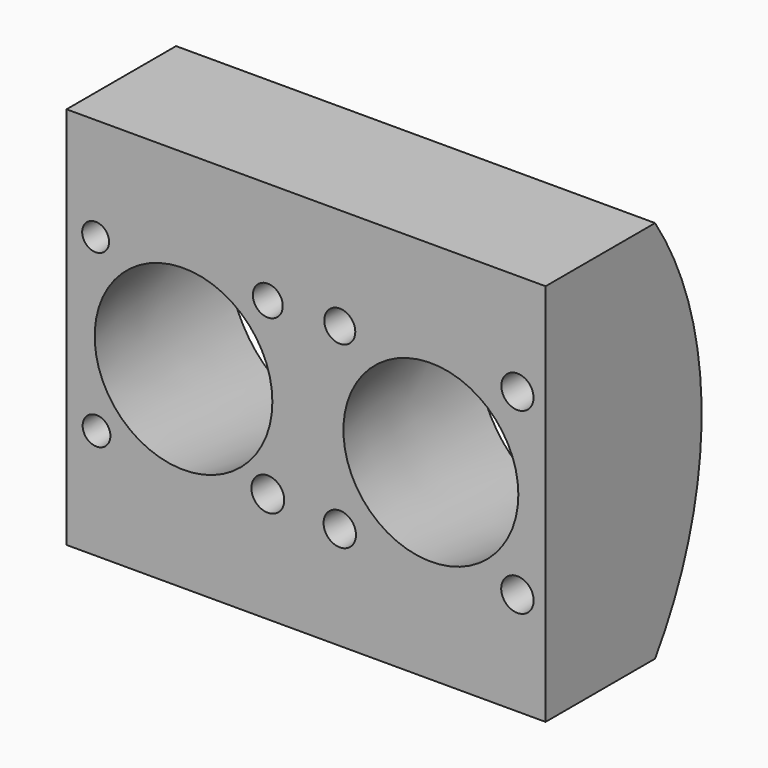
from build123d import *

# Parameters (mm, degrees)
F1_DEPTH  = 70
F2_DEPTH  = 70
F3_DEPTH  = 40
F4_R      = 25.9673411554
F4_R_2    = 25.5632964649
F5_DEPTH  = 101.6
F5_TAPER  = -7.5
F6_R      = 3.9312257392
F6_R_2    = 4.3669266887
F7_R      = 4.0554960028
F7_R_2    = 4.8000012206
F8_DEPTH  = 25.4
F8_TAPER  = 4
F9_R      = 4.5341790364
F9_R_2    = 4.7105540517
F9_R_3    = 4.7405563192
F9_R_4    = 4.7405580976
F10_DEPTH = 25.4
F10_TAPER = 4


with BuildPart() as f1:
    # F0 (on Right) → F1 (new body)
    with BuildSketch(Plane.YZ):
        with BuildLine():
            Line((0, 56.3131943345), (0, -55.7806827128))
            ThreePointArc((0, -55.7806827128), (17.0028912966, 0.2662558109), (0, 56.3131943345))
        make_face()
    extrude(amount=F1_DEPTH)

    # F2 (add): a face of the model
    f2_faces = [f1.faces().sort_by_distance(p)[0] for p in [
        (0, 6.8528110679, 0.2662558109),
    ]]
    extrude(f2_faces, amount=F2_DEPTH)

    # F3 (add): a face of the model
    f3_faces = [f1.faces().sort_by_distance(p)[0] for p in [
        (0, 0, 0.2662558109),
    ]]
    extrude(f3_faces, amount=F3_DEPTH)

    # F4 (on face) → F5 (cut)
    with BuildSketch(Plane.XZ.offset(40)):
        with Locations((-35.8114647679, 0.6180945247)):
            Circle(F4_R)
        with Locations((36.479592697, 0.1035452609)):
            Circle(F4_R_2)
    extrude(amount=-F5_DEPTH, taper=F5_TAPER, mode=Mode.SUBTRACT)

    # F6 (on face) + F7 (on face) → F8 (cut)
    with BuildSketch(Plane.XZ.offset(40)):
        with Locations((-61.5051910281, 26.2262392789)):
            Circle(F6_R)
        with Locations((-11.1827617511, 26.2262392789)):
            Circle(F6_R_2)
    with BuildSketch(Plane.XZ.offset(40)):
        with Locations((-61.2389370799, -23.5636774451)):
            Circle(F7_R)
        with Locations((-11.1827617511, -23.5636774451)):
            Circle(F7_R_2)
    extrude(amount=-F8_DEPTH, taper=F8_TAPER, mode=Mode.SUBTRACT)

    # F9 (on face) → F10 (cut)
    with BuildSketch(Plane.XZ.offset(40)):
        with Locations((9.8514817655, 26.4924950898)):
            Circle(F9_R)
        with Locations((61.7714524269, 26.4924950898)):
            Circle(F9_R_2)
        with Locations((61.7714524269, -25.6937257946)):
            Circle(F9_R_3)
        with Locations((9.8514817655, -25.6937257946)):
            Circle(F9_R_4)
    extrude(amount=-F10_DEPTH, taper=F10_TAPER, mode=Mode.SUBTRACT)


solid = f1.part
